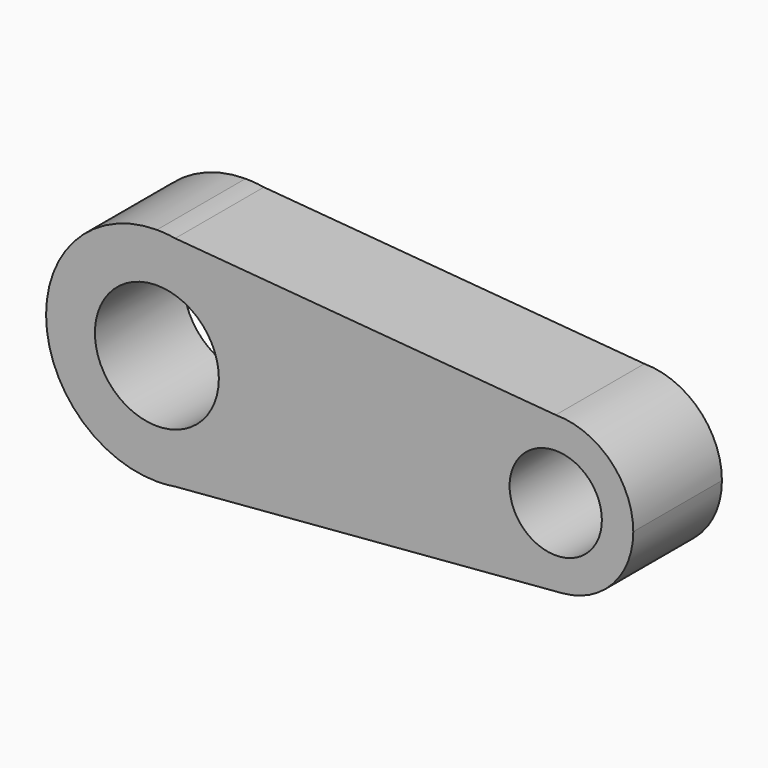
from build123d import *

# Parameters (mm, degrees)
F0_R     = 24.106038
F0_R_2   = 10.411348
F0_R_3   = 13.98419
F1_DEPTH = 25


with BuildPart() as f1:
    # F0 (on Front) → F1 (new body)
    with BuildSketch(Plane.XZ):
        with BuildLine():
            Line((4.137931, 24.655172), (0, 25))
            ThreePointArc((0, 25), (-25, 0), (0, -25))
            Line((0, -25), (4.105443, -24.660603))
            ThreePointArc((4.105443, -24.660603), (19.074015, -16.161125), (25, 0))
            ThreePointArc((25, 0), (19.084657, 16.148556), (4.137931, 24.655172))
        make_face()
        Circle(F0_R, mode=Mode.SUBTRACT)
        with BuildLine():
            ThreePointArc((4.137931, 24.655172), (2.076137, 24.913644), (0, 25))
            Line((0, 25), (4.137931, 24.655172))
        make_face()
        with BuildLine():
            Line((4.105443, -24.660603), (0, -25))
            ThreePointArc((0, -25), (2.059724, -24.915006), (4.105443, -24.660603))
        make_face()
        with BuildLine():
            Line((90, 17.5), (4.137931, 24.655172))
            ThreePointArc((4.137931, 24.655172), (19.084657, 16.148556), (25, 0))
            ThreePointArc((25, 0), (19.074015, -16.161125), (4.105443, -24.660603))
            Line((4.105443, -24.660603), (91.441807, -17.440504))
            ThreePointArc((91.441807, -17.440504), (72.51488, -0.721517), (90, 17.5))
        make_face()
        with BuildLine():
            ThreePointArc((107.5, 0), (102.374369, 12.374369), (90, 17.5))
            ThreePointArc((90, 17.5), (72.51488, -0.721517), (91.441807, -17.440504))
            ThreePointArc((91.441807, -17.440504), (102.874036, -11.853657), (107.5, 0))
        make_face()
        with Locations((90, 0)):
            Circle(F0_R_2, mode=Mode.SUBTRACT)
        Circle(F0_R)
        Circle(F0_R_3, mode=Mode.SUBTRACT)
    extrude(amount=F1_DEPTH)


solid = f1.part
